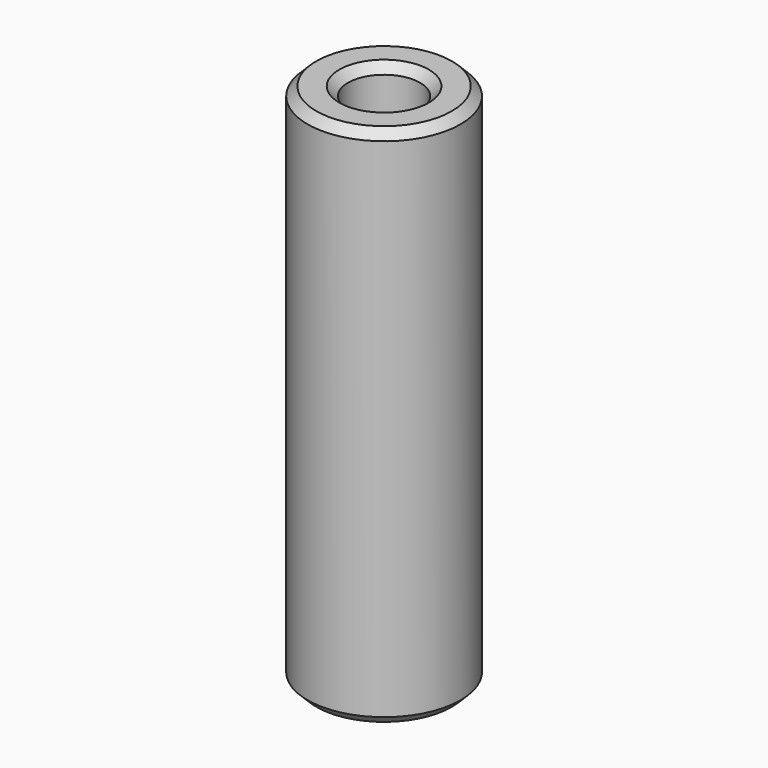
from build123d import *

# Parameters (mm, degrees)
CYLINDER009_R         = 1.65
CYLINDER009_DEPTH     = 24
CYLINDER008_R         = 3.5
CYLINDER008_DEPTH     = 24
CHAMFER020026006_SIZE = 0.4


with BuildPart() as cylinder009:
    # Cylinder009 → Cylinder009 (new body)
    with BuildSketch(Plane(origin=(9, 39, 2), x_dir=(1, 0, 0), z_dir=(0, 0, 1))):
        Circle(CYLINDER009_R)
    extrude(amount=CYLINDER009_DEPTH)


with BuildPart() as chamfer020026006:
    # Cylinder008 → Cylinder008 (new body)
    with BuildSketch(Plane(origin=(9, 39, 2), x_dir=(1, 0, 0), z_dir=(0, 0, 1))):
        Circle(CYLINDER008_R)
    extrude(amount=CYLINDER008_DEPTH)

    # Cut002002002007004004001006014: cut Cylinder009
    add(cylinder009.part, mode=Mode.SUBTRACT)

    # Chamfer020026006
    chamfer020026006_edges = [chamfer020026006.edges().sort_by_distance(p)[0] for p in [
        (5.5, 39, 26),
        (5.5, 39, 2),
        (7.35, 39, 26),
        (7.35, 39, 2),
    ]]
    chamfer(chamfer020026006_edges, length=CHAMFER020026006_SIZE)


solid = chamfer020026006.part
